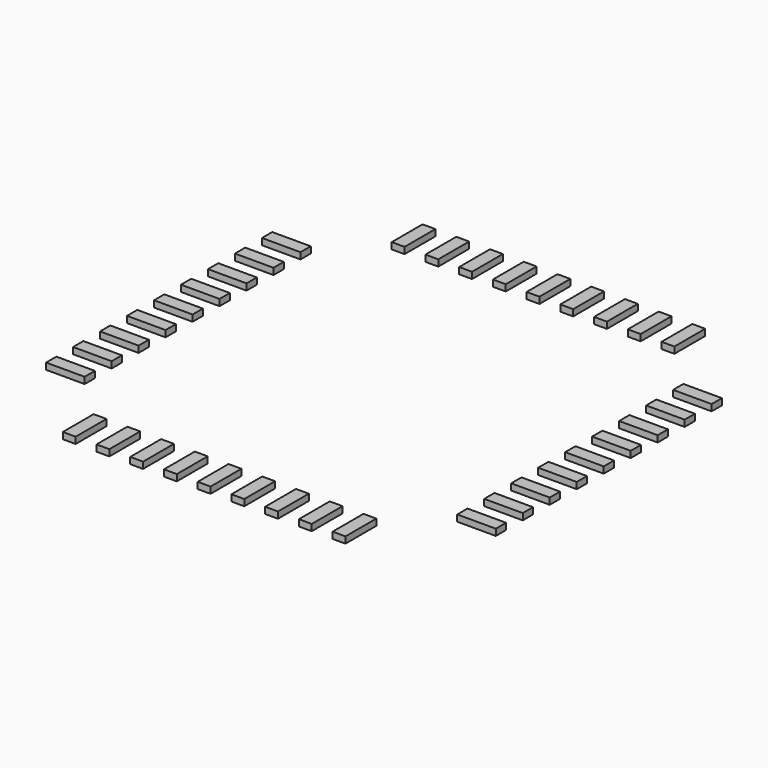
from build123d import *

# Parameters (mm, degrees)
BOX032_W             = 0.2
BOX032_H             = 0.6
BOX032_DEPTH         = 0.1
ARRAY012_X_COUNT     = 9
ARRAY012_X_PITCH     = 0.525
ARRAY012_Y_COUNT     = 2
ARRAY012_Y_PITCH     = 6.4
LINK_PLACEMENT_ANGLE = 90


with BuildPart() as array012:
    # Box032 → Box032 (new body)
    with BuildSketch(Plane(origin=(-2.2, 2.9, 0), x_dir=(1, 0, 0), z_dir=(0, 0, 1))):
        with Locations((0.1, 0.3)):
            Rectangle(BOX032_W, BOX032_H)
    extrude(amount=BOX032_DEPTH)

    # Array012 X: Array012 ×9


with BuildPart() as array012_1:
    add(array012.part)
    with Locations(*[(i * ARRAY012_X_PITCH, 0, 0) for i in range(1, ARRAY012_X_COUNT)]):
        add(array012.part)

    # Array012 Y: Array012 ×2


with BuildPart() as array012_2:
    add(array012_1.part)
    with Locations(*[(0, -i * ARRAY012_Y_PITCH, 0) for i in range(1, ARRAY012_Y_COUNT)]):
        add(array012_1.part)


with BuildPart() as link:
    # Link base: copy of Array012
    add(array012_2.part)


with BuildPart() as link_1:
    # Link placement: moved
    add(link.part.rotate(Axis((0, 0, 0), (0, 0, 1)), LINK_PLACEMENT_ANGLE))


with BuildPart() as pins:
    # Fusion022 base: copy of Array012
    add(array012_2.part)

    # Fusion022: union Link
    add(link_1.part)


solid = pins.part
